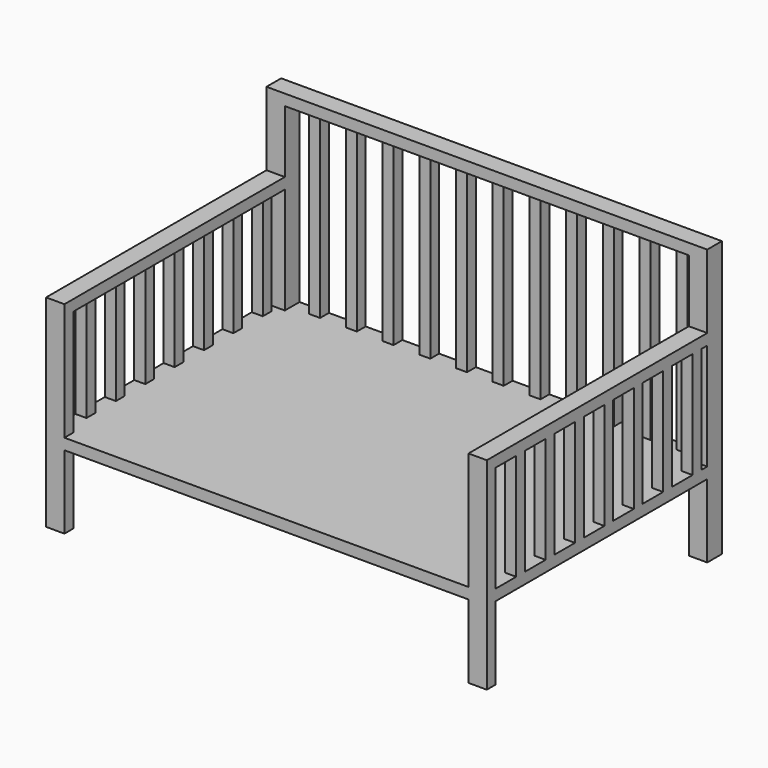
from build123d import *

# Parameters (mm, degrees)
EXTRUDE_DEPTH    = 50
SKETCH001_W      = 1200
SKETCH001_H      = 800
EXTRUDE001_DEPTH = 30
EXTRUDE002_DEPTH = 50
SKETCH003_W      = 30
SKETCH003_H      = 30
EXTRUDE003_DEPTH = 290
ARRAY_Y_COUNT    = 8
ARRAY_Y_PITCH    = 100
EXTRUDE004_DEPTH = 490
ARRAY001_X_COUNT = 12
ARRAY001_X_PITCH = 100


with BuildPart() as extrude_body:
    # Sketch → Extrude (new body)
    with BuildSketch(Plane.YZ):
        Polygon((0, 0), (30, 0), (30, 520), (770, 520), (770, 0), (800, 0), (800, 550), (0, 550), align=None)
    extrude(amount=EXTRUDE_DEPTH)


with BuildPart() as extrude004:
    # Sketch001 → Extrude001 (new body)
    with BuildSketch(Plane.XY):
        with Locations((600, 400)):
            Rectangle(SKETCH001_W, SKETCH001_H)
    extrude(amount=EXTRUDE001_DEPTH)


with BuildPart() as extrude004_1:
    # Extrude001 placement: moved
    add(extrude004.part.moved(Location((0, 0, 200))))


with BuildPart() as extrude002:
    # Sketch002 → Extrude002 (new body)
    with BuildSketch(Plane.XZ):
        Polygon((0, 0), (50, 0), (50, 720), (1150, 720), (1150, 0), (1200, 0), (1200, 750), (0, 750), align=None)
    extrude(amount=EXTRUDE002_DEPTH)


with BuildPart() as extrude002_1:
    # Extrude002 placement: moved
    add(extrude002.part.moved(Location((0, 800, 0))))


with BuildPart() as array:
    # Sketch003 → Extrude003 (new body)
    with BuildSketch(Plane.XY):
        with Locations((15, 15)):
            Rectangle(SKETCH003_W, SKETCH003_H)
    extrude(amount=EXTRUDE003_DEPTH)

    # Array Y: Array ×8


with BuildPart() as array_1:
    add(array.part)
    with Locations(*[(0, i * ARRAY_Y_PITCH, 0) for i in range(1, ARRAY_Y_COUNT)]):
        add(array.part)


with BuildPart() as array_2:
    # Array placement: moved
    add(array_1.part.moved(Location((0, 0, 230))))


with BuildPart() as array001:
    # Clone001 base: copy of Array
    add(array_2.part)


with BuildPart() as array001_1:
    # Clone001 placement: moved
    add(array001.part.moved(Location((1170, 0, 0))))


with BuildPart() as array002:
    # Sketch003 → Extrude004 (new body)
    with BuildSketch(Plane.XY):
        with Locations((15, 15)):
            Rectangle(SKETCH003_W, SKETCH003_H)
    extrude(amount=EXTRUDE004_DEPTH)

    # Array001 X: Array002 ×12


with BuildPart() as array002_1:
    add(array002.part)
    with Locations(*[(i * ARRAY001_X_PITCH, 0, 0) for i in range(1, ARRAY001_X_COUNT)]):
        add(array002.part)


with BuildPart() as array002_2:
    # Array001 placement: moved
    add(array002_1.part.moved(Location((0, 770, 230))))


with BuildPart() as fusion:
    # Clone base: copy of Extrude body
    add(extrude_body.part)


with BuildPart() as fusion_1:
    # Clone placement: moved
    add(fusion.part.moved(Location((1150, 0, 0))))

    # Fusion: union Extrude body, Extrude004, Extrude002, Array, Array001, Array002
    add(extrude_body.part)
    add(extrude004_1.part)
    add(extrude002_1.part)
    add(array_2.part)
    add(array001_1.part)
    add(array002_2.part)


solid = fusion_1.part
